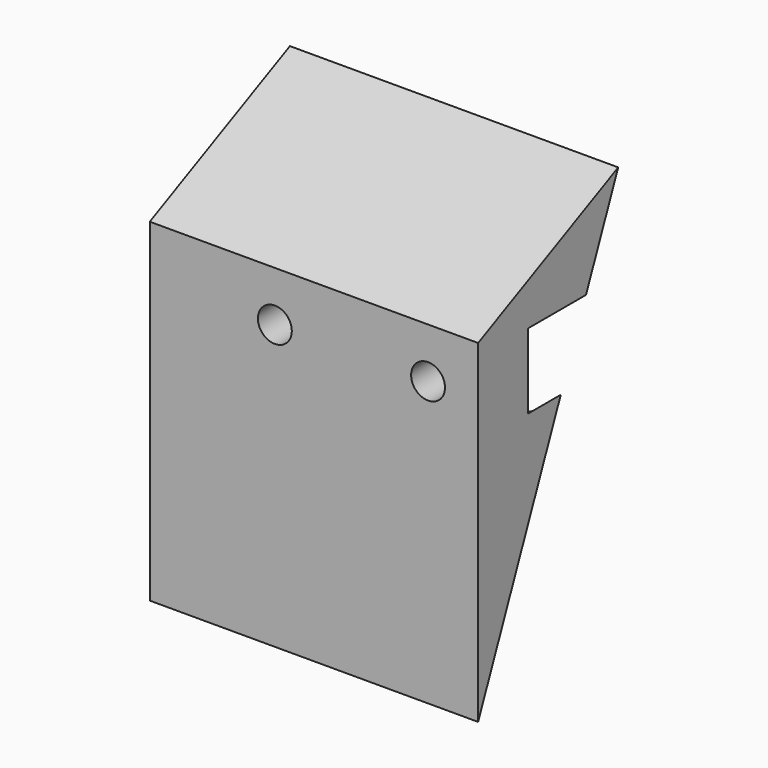
from build123d import *

# Parameters (mm, degrees)
F1_DEPTH      = 50
F3_R          = 2.5796875
F4_DEPTH      = 17.146
F4_DEPTH_BACK = 9.526
F5_R          = 2.5796875
F5_R_2        = 9.525
F6_DEPTH      = 25.4


with BuildPart() as f1:
    # F0 (on Right) → F1 (new body)
    with BuildSketch(Plane.YZ):
        Polygon((22.1225786954, 25.4), (22.1225786954, -25.4), (48.7925786954, 38.1), align=None)
        Polygon((22.1225786954, 25.4), (22.1225786954, -25.4), (48.7925786954, 38.1), align=None)
    extrude(amount=F1_DEPTH)

    # F3 (on offset) → F4 (cut, two sides)
    with BuildSketch(Plane.XZ.offset(-31.6475786954)) as f4_sk:
        with Locations((42.38, 17.78)):
            Circle(F3_R)
        with Locations((19.05, 17.78)):
            Circle(F3_R)
    extrude(amount=-F4_DEPTH, mode=Mode.SUBTRACT)
    extrude(f4_sk.sketch, amount=F4_DEPTH_BACK, mode=Mode.SUBTRACT)

    # F5 (on offset) → F6 (cut)
    with BuildSketch(Plane.XZ.offset(-31.6475786954)):
        with BuildLine():
            ThreePointArc((50, 12.065), (51.4162084139, 14.7679305287), (51.905, 17.78))
            ThreePointArc((51.905, 17.78), (51.4162084139, 20.7920694713), (50, 23.495))
            Line((50, 23.495), (50, 12.065))
        make_face()
        with BuildLine():
            Line((50, 12.065), (50, 23.495))
            ThreePointArc((50, 23.495), (32.855, 17.78), (50, 12.065))
        make_face()
        with Locations((42.38, 17.78)):
            Circle(F5_R, mode=Mode.SUBTRACT)
        with Locations((19.05, 17.78)):
            Circle(F5_R_2)
        with Locations((19.05, 17.78)):
            Circle(F5_R, mode=Mode.SUBTRACT)
    extrude(amount=-F6_DEPTH, mode=Mode.SUBTRACT)


solid = f1.part
